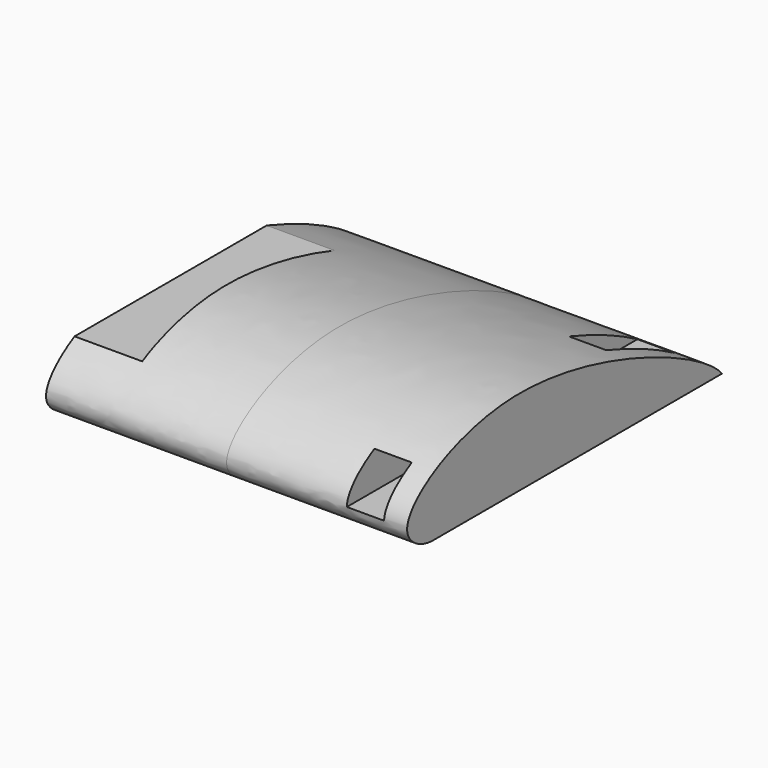
from build123d import *

# Parameters (mm, degrees)
F1_DEPTH = 50.8
F2_W     = 10.5
F2_H     = 10.5
F3_DEPTH = 292.1
F5_W     = 19.05
F5_H     = 101.6
F6_DEPTH = 8.255


with BuildPart() as f1:
    # F0 (on Right) → F1 (new body, symmetric)
    with BuildSketch(Plane.YZ):
        with BuildLine():
            add(Edge.make_bspline(
                [(-58.7011294477, 0), (-63.0088709792, 0), (-76.6224606235, 7.8114364795), (-29.3166396484, 37.358778601), (36.9753469676, 7.968135282), (42.8988705523, 0)],
                knots=[0, 0, 0, 0, 0.1791157224, 0.5263720297, 1, 1, 1, 1], degree=3))
            Line((-58.7011294477, 0), (42.8988705523, 0))
        make_face()
    extrude(amount=F1_DEPTH, both=True)

    # F2 (on Front) → F3 (cut, symmetric)
    with BuildSketch(Plane.XZ):
        with Locations((39.0781049237, 11.7218950763)):
            Rectangle(F2_W, F2_H)
    extrude(amount=F3_DEPTH, both=True, mode=Mode.SUBTRACT)

    # F5 (on offset) → F6 (cut)
    with BuildSketch(Plane.XY.offset(25.4)):
        with Locations((-41.275, -7.9011294477)):
            Rectangle(F5_W, F5_H)
    extrude(amount=-F6_DEPTH, mode=Mode.SUBTRACT)


solid = f1.part
